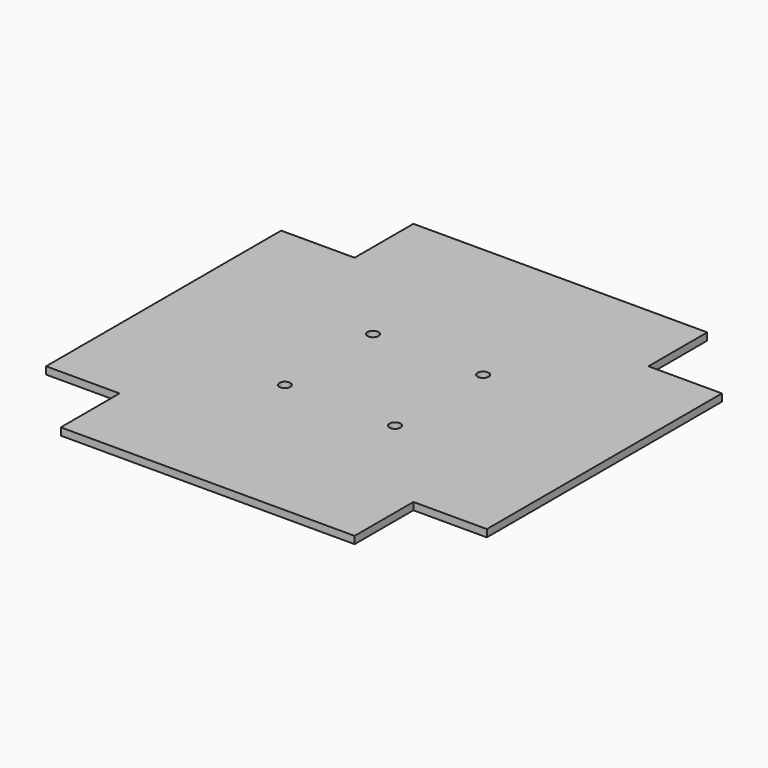
from build123d import *

# Parameters (mm, degrees)
F2_DEPTH = 2
F3_D     = 3


with BuildPart() as f2:
    # F0 (on Top) → F2 (new body)
    with BuildSketch(Plane.XY):
        Polygon((40, 60), (0, 60), (-4.426457, 60), (-40, 60), (-40, 40), (-60, 40), (-60, 0), (-60, -40), (-40, -40), (-40, -60), (0, -60), (40, -60), (40, -40), (60, -40), (60, 0), (60, 40), (40, 40), align=None)
    extrude(amount=F2_DEPTH)

    # F3 (through all)
    with Locations(Plane(origin=(0, 0, 0), x_dir=(1, 0, 0), z_dir=(0, 0, -1))):
        with Locations((-15, 15), (15, 15), (-15, -15), (15, -15)):
            Hole(F3_D / 2)


solid = f2.part
